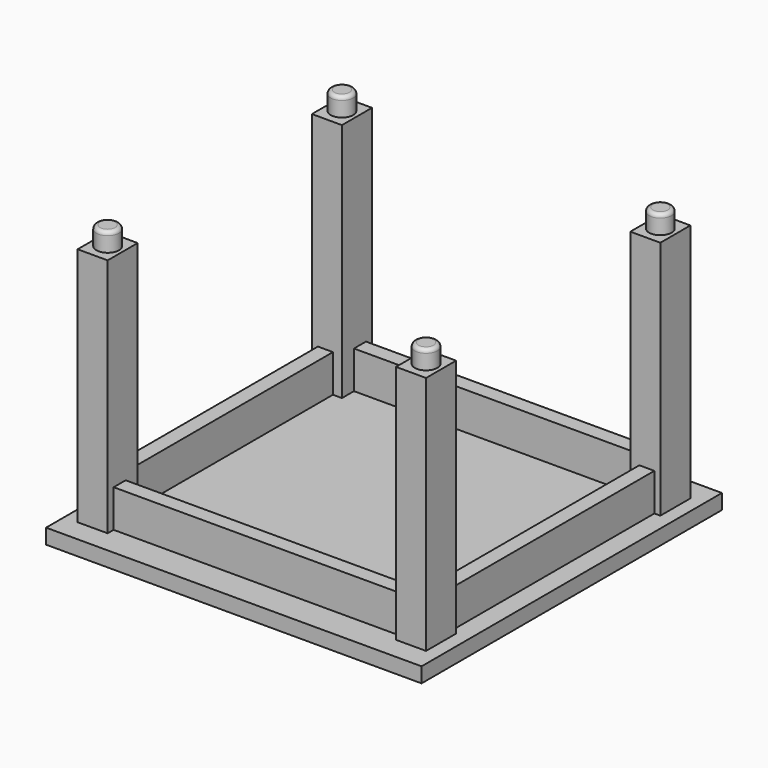
from build123d import *

# Parameters (mm, degrees)
F0_W     = 500
F0_H     = 500
F1_DEPTH = 20
F2_W     = 40
F2_H     = 50
F3_DEPTH = 320
F4_W     = 384
F4_H     = 20
F4_W_2   = 20
F4_H_2   = 340
F5_DEPTH = 50
F7_R     = 15
F8_DEPTH = 25
F9_R     = 5


with BuildPart() as f1:
    # F0 (on Top) → F1 (new body)
    with BuildSketch(Plane.XY):
        Rectangle(F0_W, F0_H)
    extrude(amount=F1_DEPTH)

    # F2 (on face) → F3 (join)
    with BuildSketch(Plane.XY.offset(20)):
        with Locations((212, 195)):
            Rectangle(F2_W, F2_H)
        with Locations((-212, -195)):
            Rectangle(F2_W, F2_H)
        with Locations((212, -195)):
            Rectangle(F2_W, F2_H)
        with Locations((-212, 195)):
            Rectangle(F2_W, F2_H)
    extrude(amount=F3_DEPTH)

    # F4 (on face) → F5 (join)
    with BuildSketch(Plane.XY.offset(20)):
        with Locations((0, -200)):
            Rectangle(F4_W, F4_H)
        Polygon((-192, 199.430282), (-192, 190), (192, 190), (192, 195), (192, 210), (-192, 210), align=None)
        with Locations((214.009886, 0)):
            Rectangle(F4_W_2, F4_H_2)
        with Locations((-214.009886, 0)):
            Rectangle(F4_W_2, F4_H_2)
    extrude(amount=F5_DEPTH)

    # F7 (on face) → F8 (join)
    with BuildSketch(Plane.XY.offset(340)):
        with Locations((212, 195)):
            Circle(F7_R)
        with Locations((-212, 195)):
            Circle(F7_R)
        with Locations((212, -195)):
            Circle(F7_R)
        with Locations((-212, -195)):
            Circle(F7_R)
    extrude(amount=F8_DEPTH)

    # F9
    f9_edges = [f1.edges().sort_by_distance(p)[0] for p in [
        (197, 195, 365),
        (197, -195, 365),
        (-227, -195, 365),
        (-227, 195, 365),
    ]]
    fillet(f9_edges, radius=F9_R)


solid = f1.part
